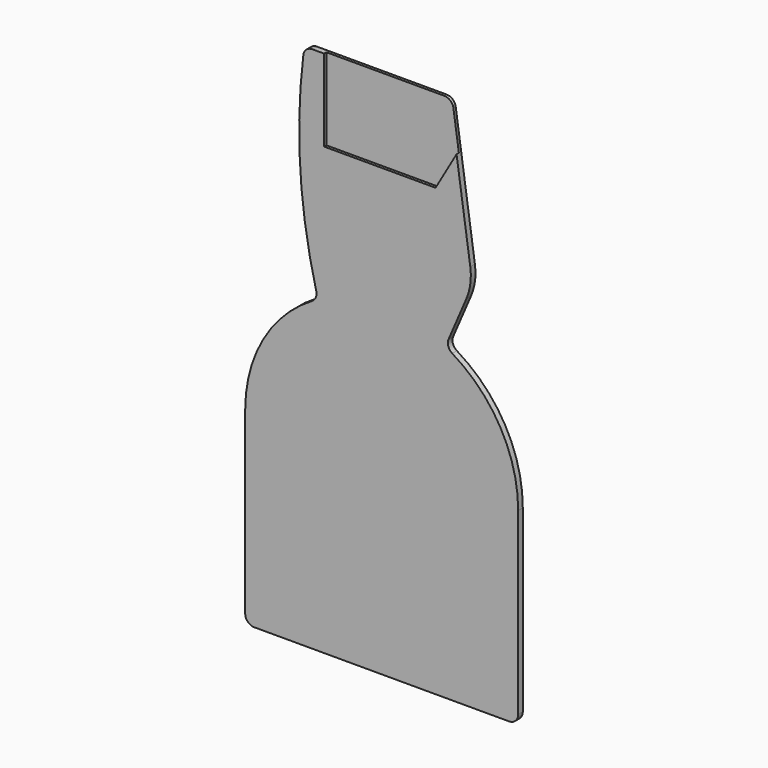
from build123d import *

# Parameters (mm, degrees)
F1_DEPTH = 3.175
F2_R     = 5
F3_R     = 30
F5_DEPTH = 1.5875


with BuildPart() as f1:
    # F0 (on Front) → F1 (new body)
    with BuildSketch(Plane.XZ):
        with BuildLine():
            Line((-75, 103.6675041929), (-75, 0))
            Line((-75, 0), (75, 0))
            Line((75, 0), (75, 103.6675041929))
            ThreePointArc((75, 103.6675041929), (64.2261628933, 142.397337655), (35, 170))
            Line((35, 170), (49.8954840004, 204.6374976635))
            Line((49.8954840004, 204.6374976635), (37.5165957212, 290))
            Line((37.5165957212, 290), (-42.4834042788, 290))
            ThreePointArc((-42.4834042788, 290), (-44.7601701514, 229.6246780894), (-35, 170))
            ThreePointArc((-35, 170), (-64.2261628933, 142.397337655), (-75, 103.6675041929))
        make_face()
    extrude(amount=F1_DEPTH)

    # F2
    f2_edges = [f1.edges().sort_by_distance(p)[0] for p in [
        (-35, -1.5875, 170),
        (-42.483404, -1.5875, 290),
        (37.516596, -1.5875, 290),
        (75, -1.5875, 0),
        (-75, -1.5875, 0),
        (35, -1.5875, 170),
    ]]
    fillet(f2_edges, radius=F2_R)

    # F3
    f3_edges = [f1.edges().sort_by_distance(p)[0] for p in [
        (49.895484, -1.5875, 204.637498),
    ]]
    fillet(f3_edges, radius=F3_R)

    # F4 (on face) → F5 (cut)
    with BuildSketch(Plane.XZ.offset(3.175)):
        with BuildLine():
            Line((33.1893731308, 290), (-31.6550214826, 290))
            Line((-31.6550214826, 290), (-31.6550214826, 245))
            Line((-31.6550214826, 245), (29.5949785174, 245))
            Line((29.5949785174, 245), (41.1419839012, 265))
            Line((41.1419839012, 265), (38.137614304, 285.7175718024))
            ThreePointArc((38.137614304, 285.7175718024), (36.461386348, 288.7807313454), (33.1893731308, 290))
        make_face()
    extrude(amount=-F5_DEPTH, mode=Mode.SUBTRACT)


solid = f1.part
